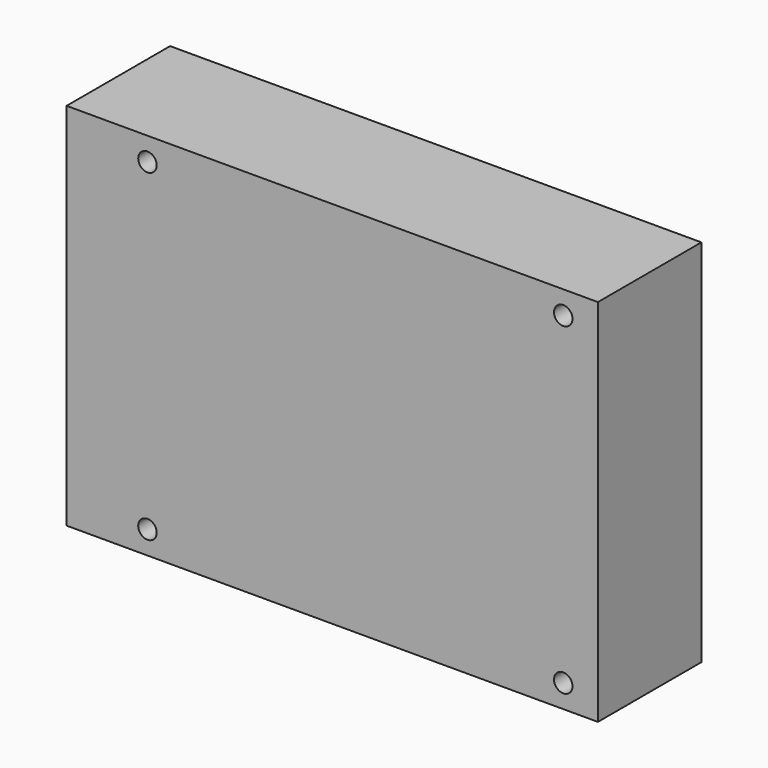
from build123d import *

# Parameters (mm, degrees)
F0_W     = 90
F0_H     = 5
F0_H_2   = 70
F0_W_2   = 7.5
F1_DEPTH = 28
F2_D     = 4


with BuildPart() as f1:
    # F0 (on Front) → F1 (new body)
    with BuildSketch(Plane.XZ):
        Polygon((-77.4741143733, 33.6989310638), (-77.4741143733, -46.3010689362), (-59.9741143733, -46.3010689362), (-59.9741143733, -41.3010689362), (-59.9741143733, 28.6989310638), (-59.9741143733, 33.6989310638), align=None)
        with Locations((-14.9741143733, 31.1989310638)):
            Rectangle(F0_W, F0_H)
        with Locations((-14.9741143733, -6.3010689362)):
            Rectangle(F0_W, F0_H_2)
        with Locations((33.7758856267, -6.3010689362)):
            Rectangle(F0_W_2, F0_H_2)
        with Locations((33.7758856267, 31.1989310638)):
            Rectangle(F0_W_2, F0_H)
        with Locations((-14.9741143733, -43.8010689362)):
            Rectangle(F0_W, F0_H)
        with Locations((33.7758856267, -43.8010689362)):
            Rectangle(F0_W_2, F0_H)
    extrude(amount=F1_DEPTH)

    # F2 (through all)
    with Locations(Plane(origin=(0, 0, 0), x_dir=(1, 0, 0), z_dir=(0, 1, 0))):
        with Locations((-59.9741143733, -28.6989310638), (30.0258856267, -28.6989310638), (-59.9741143733, 41.3010689362), (30.0258856267, 41.3010689362)):
            Hole(F2_D / 2)


solid = f1.part
